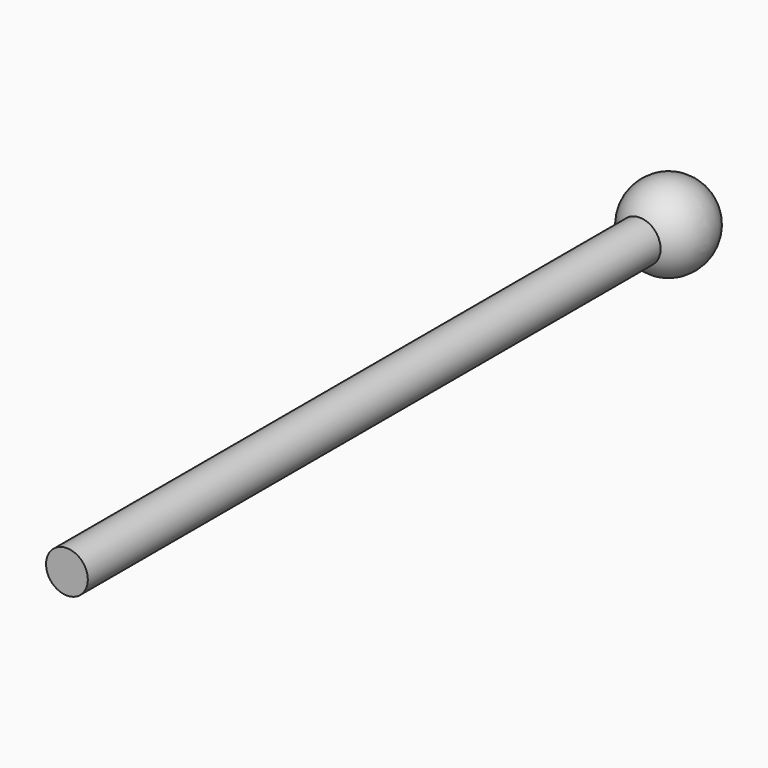
from build123d import *

# Parameters (mm, degrees)
F2_R     = 12.5
F3_DEPTH = 450


with BuildPart() as f1:
    # F0 (on Front) → F1 (revolve)
    with BuildSketch(Plane.XZ):
        with BuildLine():
            Line((0, 25), (0, -25))
            ThreePointArc((0, -25), (25, 0), (0, 25))
        make_face()
    revolve(axis=Axis((0, 0, 0), (0, 0, -1)))


with BuildPart() as f3:
    # F2 (on Front) → F3 (new body)
    with BuildSketch(Plane.XZ):
        Circle(F2_R)
    extrude(amount=F3_DEPTH)


solid = Compound([f1.part, f3.part])
